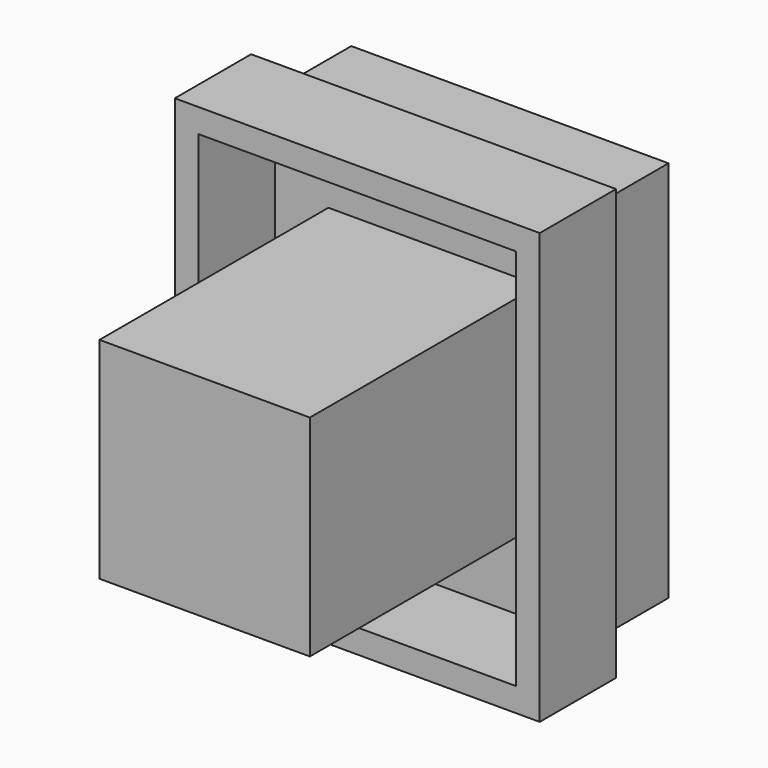
from build123d import *

# Parameters (mm, degrees)
F0_W     = 84.490568
F0_H     = 101.918816
F1_DEPTH = 25.4
F2_W     = 97.190568
F2_H     = 114.618816
F2_W_2   = 84.490568
F2_H_2   = 101.918816
F3_DEPTH = 25.4
F4_W     = 56.0278
F4_H     = 56.0278
F5_DEPTH = 76.2


with BuildPart() as f1:
    # F0 (on Front) → F1 (new body)
    with BuildSketch(Plane.XZ):
        Rectangle(F0_W, F0_H)
    extrude(amount=F1_DEPTH)

    # F4 (on face) → F5 (join)
    with BuildSketch(Plane.XZ.offset(25.4)):
        Rectangle(F4_W, F4_H)
    extrude(amount=F5_DEPTH)


with BuildPart() as f3:
    # F2 (on face) → F3 (new body)
    with BuildSketch(Plane.XZ.offset(25.4)):
        Rectangle(F2_W, F2_H)
        Rectangle(F2_W_2, F2_H_2, mode=Mode.SUBTRACT)
    extrude(amount=F3_DEPTH)


solid = Compound([f1.part, f3.part])
